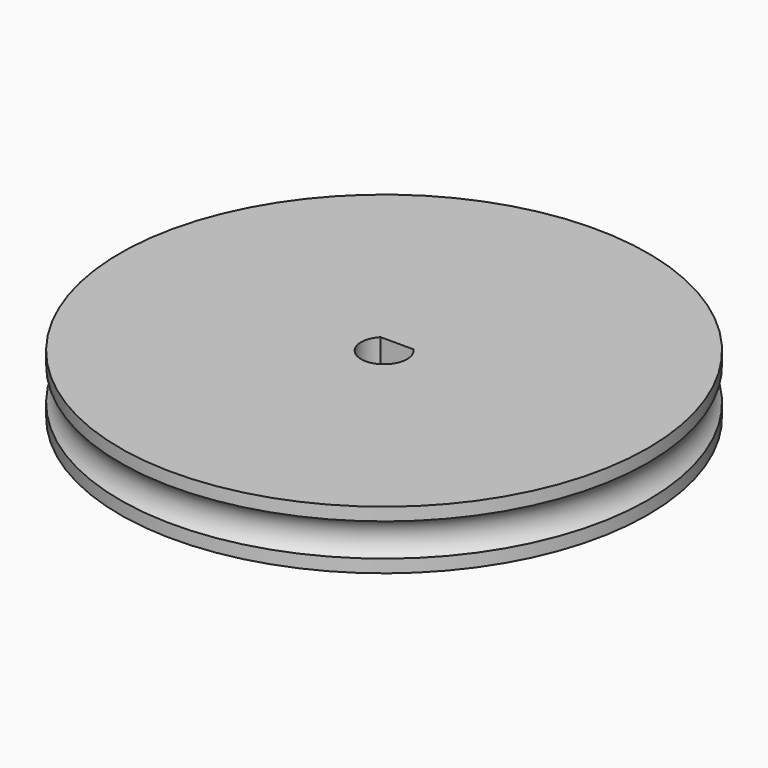
from build123d import *

# Parameters (mm, degrees)
TORUS002_R        = 1.5
BOX084016_W       = 10
BOX084016_H       = 10
BOX084016_DEPTH   = 12
CYLINDER028_R     = 1.57
CYLINDER028_DEPTH = 10
CYLINDER012_R     = 18
CYLINDER012_DEPTH = 4


with BuildPart() as torus002:
    # Torus002 → Torus002 (revolve)
    with BuildSketch(Plane(origin=(0, 0, 2), x_dir=(1, 0, 0), z_dir=(0, -1, 0))):
        with Locations((19, 0)):
            Circle(TORUS002_R)
    revolve(axis=Axis((0, 0, 2), (0, 0, 1)))


with BuildPart() as cube067:
    # Box084016 → Box084016 (new body)
    with BuildSketch(Plane(origin=(-5, 1.1, -1.5), x_dir=(1, 0, 0), z_dir=(0, 0, 1))):
        with Locations((5, 5)):
            Rectangle(BOX084016_W, BOX084016_H)
    extrude(amount=BOX084016_DEPTH)


with BuildPart() as cut057:
    # Cylinder028 → Cylinder028 (new body)
    with BuildSketch(Plane.XY.offset(-1)):
        Circle(CYLINDER028_R)
    extrude(amount=CYLINDER028_DEPTH)

    # Cut057: cut Cube067
    add(cube067.part, mode=Mode.SUBTRACT)


with BuildPart() as cut063:
    # Cylinder012 → Cylinder012 (new body)
    with BuildSketch(Plane.XY):
        Circle(CYLINDER012_R)
    extrude(amount=CYLINDER012_DEPTH)

    # Cut062: cut Cut057
    add(cut057.part, mode=Mode.SUBTRACT)

    # Cut063: cut Torus002
    add(torus002.part, mode=Mode.SUBTRACT)


solid = cut063.part
